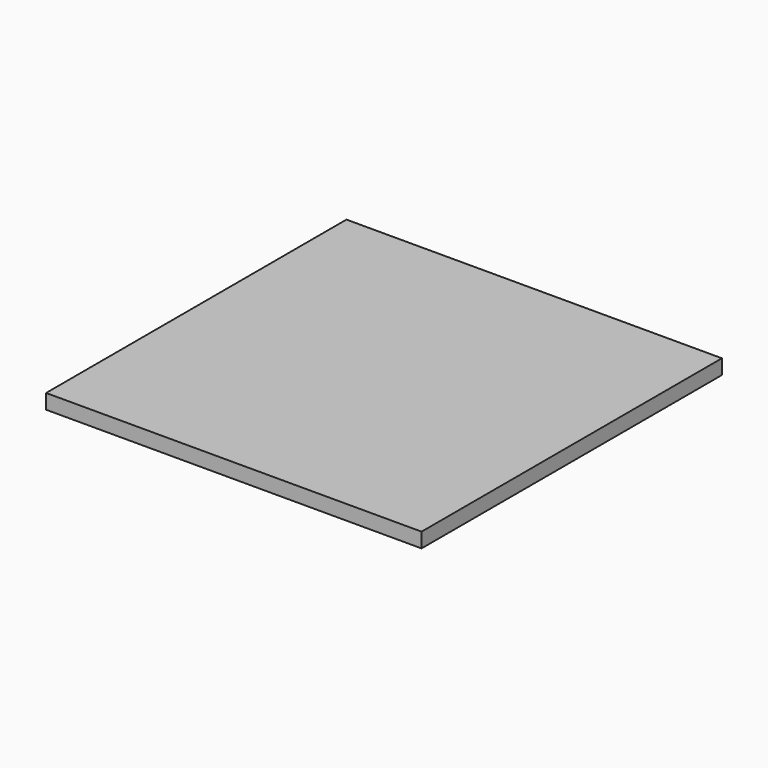
from build123d import *

# Parameters (mm, degrees)
SKETCH_W      = 152.4
SKETCH_H      = 152.4
EXTRUDE_DEPTH = 5.9944


with BuildPart() as part:
    # Sketch → Extrude (new body)
    with BuildSketch(Plane.XY):
        with Locations((26.225378, 22.028097)):
            Rectangle(SKETCH_W, SKETCH_H)
    extrude(amount=EXTRUDE_DEPTH)


solid = part.part
